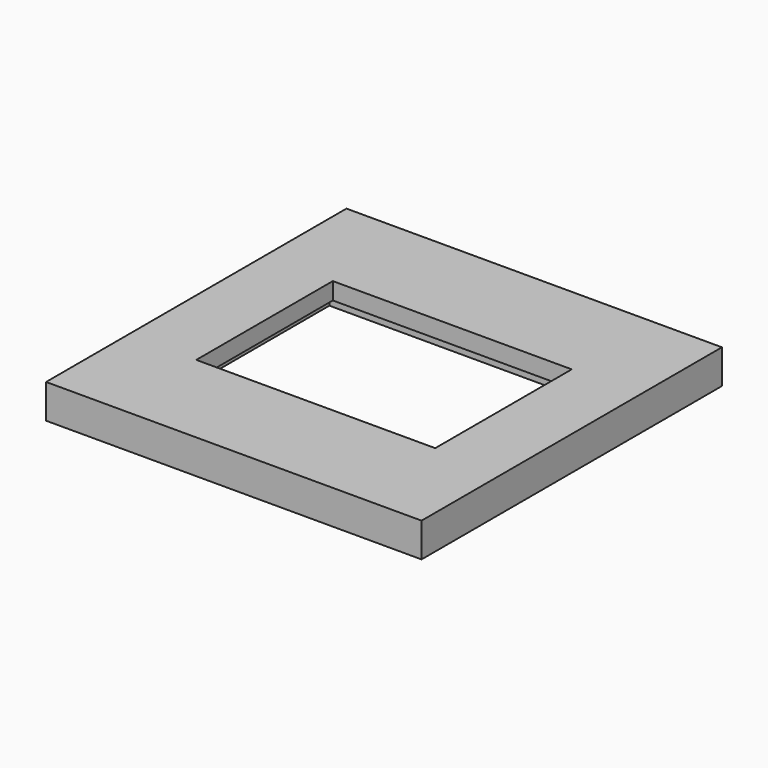
from build123d import *

# Parameters (mm, degrees)
F2_W     = 139.7
F2_H     = 139.7
F2_W_2   = 88.9
F2_H_2   = 63.5
F3_DEPTH = 12.7
F0_W     = 101.6
F0_H     = 76.2
F4_DEPTH = 6.35


with BuildPart() as f3:
    # F2 (on face) → F3 (new body)
    with BuildSketch(Plane.XY):
        Rectangle(F2_W, F2_H)
        Rectangle(F2_W_2, F2_H_2, mode=Mode.SUBTRACT)
    extrude(amount=F3_DEPTH)

    # F0 (on Top) → F4 (cut)
    with BuildSketch(Plane.XY):
        Rectangle(F0_W, F0_H)
    extrude(amount=F4_DEPTH, mode=Mode.SUBTRACT)


solid = f3.part
